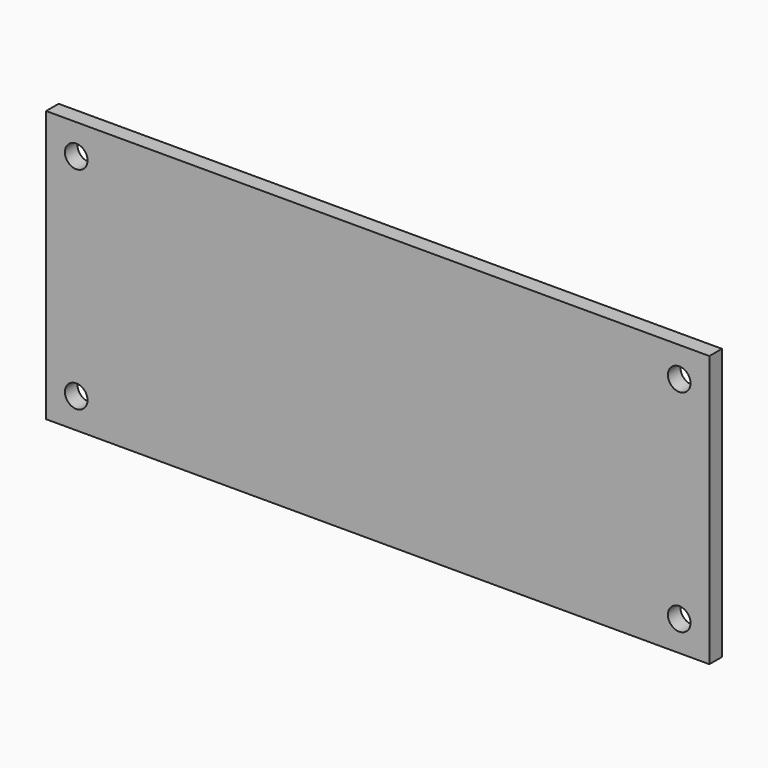
from build123d import *

# Parameters (mm, degrees)
F0_W     = 139.7
F0_H     = 57.15
F1_DEPTH = 3.302
F2_R     = 2.38125
F4_DEPTH = 3.302
F3_R     = 2.38125
F5_DEPTH = 3.302
F6_R     = 2.38125
F7_DEPTH = 3.302
F8_R     = 2.38125
F9_DEPTH = 3.302


with BuildPart() as f1:
    # F0 (on Front) → F1 (new body)
    with BuildSketch(Plane.XZ):
        Rectangle(F0_W, F0_H)
    extrude(amount=F1_DEPTH)

    # F2 (on face) → F4 (cut)
    with BuildSketch(Plane.XZ.offset(3.302)):
        with Locations((-63.5, 22.225)):
            Circle(F2_R)
    extrude(amount=-F4_DEPTH, mode=Mode.SUBTRACT)

    # F3 (on face) → F5 (cut)
    with BuildSketch(Plane.XZ.offset(3.302)):
        with Locations((-63.5, -22.225)):
            Circle(F3_R)
    extrude(amount=-F5_DEPTH, mode=Mode.SUBTRACT)

    # F6 (on face) → F7 (cut)
    with BuildSketch(Plane.XZ.offset(3.302)):
        with Locations((63.5, 22.225)):
            Circle(F6_R)
    extrude(amount=-F7_DEPTH, mode=Mode.SUBTRACT)

    # F8 (on face) → F9 (cut)
    with BuildSketch(Plane.XZ.offset(3.302)):
        with Locations((63.5, -22.225)):
            Circle(F8_R)
    extrude(amount=-F9_DEPTH, mode=Mode.SUBTRACT)


solid = f1.part
